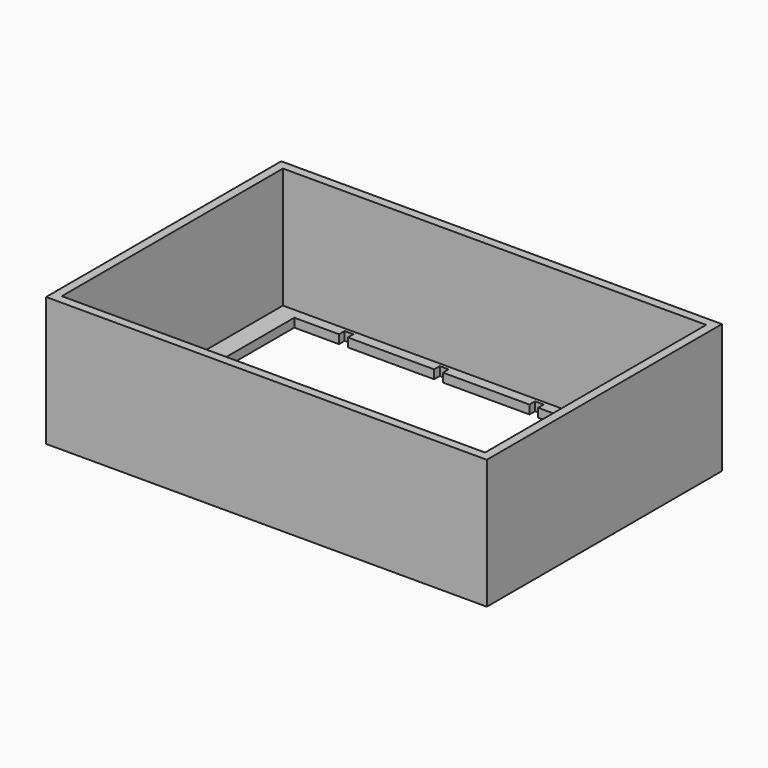
from build123d import *

# Parameters (mm, degrees)
F0_W     = 121.05
F0_H     = 79.05
F1_DEPTH = 2.5
F0_W_2   = 126.05
F0_H_2   = 84.05
F2_DEPTH = 37


with BuildPart() as f1:
    # F0 (on Top) → F1 (new body)
    with BuildSketch(Plane.XY):
        with Locations((63.025, -42.025)):
            Rectangle(F0_W, F0_H)
        Polygon((8.15, -78.55), (8.15, -5.5), (20.95, -5.5), (20.95, -3.5), (23.45, -3.5), (23.45, -5.5), (48.15, -5.5), (48.15, -3.5), (50.65, -3.5), (50.65, -5.5), (75.4, -5.5), (75.4, -3.5), (77.9, -3.5), (77.9, -5.5), (102.6, -5.5), (102.6, -3.5), (105.1, -3.5), (105.1, -5.5), (117.9, -5.5), (117.9, -78.55), (105.1, -78.55), (105.1, -80.55), (102.6, -80.55), (102.6, -78.55), (77.9, -78.55), (77.9, -80.55), (75.4, -80.55), (75.4, -78.55), (50.65, -78.55), (50.65, -80.55), (48.15, -80.55), (48.15, -78.55), (23.45, -78.55), (23.45, -80.55), (20.95, -80.55), (20.95, -78.55), align=None, mode=Mode.SUBTRACT)
    extrude(amount=F1_DEPTH)

    # F0 (on Top) → F2 (join)
    with BuildSketch(Plane.XY):
        with Locations((63.025, -42.025)):
            Rectangle(F0_W_2, F0_H_2)
        with Locations((63.025, -42.025)):
            Rectangle(F0_W, F0_H, mode=Mode.SUBTRACT)
    extrude(amount=F2_DEPTH)


solid = f1.part
